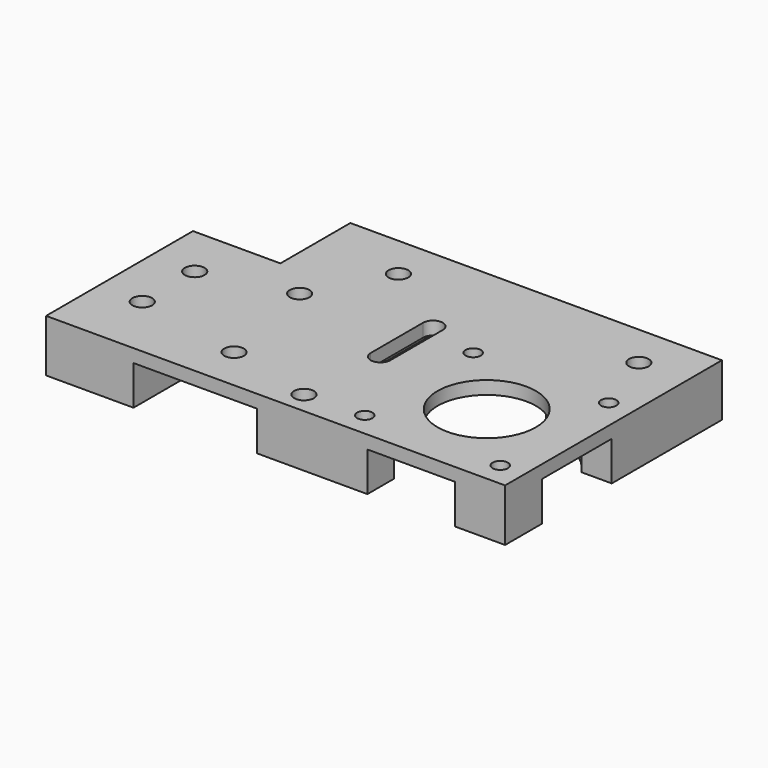
from build123d import *

# Parameters (mm, degrees)
SKETCH_R     = 2.25
SKETCH_R_2   = 11.25
SKETCH_R_3   = 1.75
PAD_DEPTH    = 12
POCKET_DEPTH = 9


with BuildPart() as pocket_belt_path:
    # Sketch → Pad (new body)
    with BuildSketch(Plane.XY):
        Polygon((0, 0), (105, 0), (105, 62), (20, 62), (20, 42), (0, 42), align=None)
        with Locations((35, 10)):
            Circle(SKETCH_R, mode=Mode.SUBTRACT)
        with Locations((30, 35)):
            Circle(SKETCH_R, mode=Mode.SUBTRACT)
        with Locations((84, 21)):
            Circle(SKETCH_R_2, mode=Mode.SUBTRACT)
        with Locations((68.5, 36.5)):
            Circle(SKETCH_R_3, mode=Mode.SUBTRACT)
        with Locations((99.5, 36.5)):
            Circle(SKETCH_R_3, mode=Mode.SUBTRACT)
        with Locations((68.5, 5.5)):
            Circle(SKETCH_R_3, mode=Mode.SUBTRACT)
        with Locations((99.5, 5.5)):
            Circle(SKETCH_R_3, mode=Mode.SUBTRACT)
        with Locations((10, 30)):
            Circle(SKETCH_R, mode=Mode.SUBTRACT)
        with Locations((10, 15)):
            Circle(SKETCH_R, mode=Mode.SUBTRACT)
        with Locations((39, 52)):
            Circle(SKETCH_R, mode=Mode.SUBTRACT)
        with Locations((94, 52)):
            Circle(SKETCH_R, mode=Mode.SUBTRACT)
        with Locations((55, 5)):
            Circle(SKETCH_R, mode=Mode.SUBTRACT)
        with BuildLine():
            Line((58.75, 25), (58.75, 40))
            ThreePointArc((58.75, 40), (56.5, 42.25), (54.25, 40))
            Line((54.25, 25), (54.25, 40))
            ThreePointArc((54.25, 25), (56.5, 22.75), (58.75, 25))
        make_face(mode=Mode.SUBTRACT)
    extrude(amount=PAD_DEPTH)

    # Sketch001 → Pocket (cut)
    with BuildSketch(Plane.XY.offset(12)):
        with BuildLine():
            ThreePointArc((38.485281, 42), (36.015595, 44.209377), (32.999996, 45.583006))
            Line((32.999996, 67), (32.999996, 45.583006))
            Line((20, 67), (32.999996, 67))
            Line((20, -1), (20, 67))
            Line((20, -1), (48.252269, -1))
            Line((48.252269, 11), (48.252269, -1))
            Line((48.252269, 11), (70.252269, 11))
            ThreePointArc((70.252269, 11), (71.759618, 9.202833), (73.499996, 7.630258))
            Line((73.499996, 7.630258), (73.499996, -1))
            Line((73.499996, -1), (93.499996, -1))
            Line((93.499996, -1), (93.499996, 6.902128))
            ThreePointArc((93.499996, 6.902128), (95.574295, 8.548671), (97.367695, 10.497399))
            Line((105.499996, 10.497399), (97.367695, 10.497399))
            Line((105.499996, 30.497399), (105.499996, 10.497399))
            Line((98.099621, 30.497399), (105.499996, 30.497399))
            ThreePointArc((98.099621, 30.497399), (91.98574, 36.007594), (83.999996, 38))
            Line((83.999996, 38), (83.999996, 67))
            Line((83.999996, 67), (43.999996, 67))
            Line((43.999996, 67), (43.999996, 42))
            Line((38.485281, 42), (43.999996, 42))
        make_face()
    extrude(amount=-POCKET_DEPTH, mode=Mode.SUBTRACT)


with BuildPart() as part_mirroring:
    # Part__Mirroring: instance of Pocket belt path
    add(pocket_belt_path.part.mirror(Plane(origin=(0, 0, 0), x_dir=(0, 1, 0), z_dir=(0, 0, 1))))


solid = part_mirroring.part
